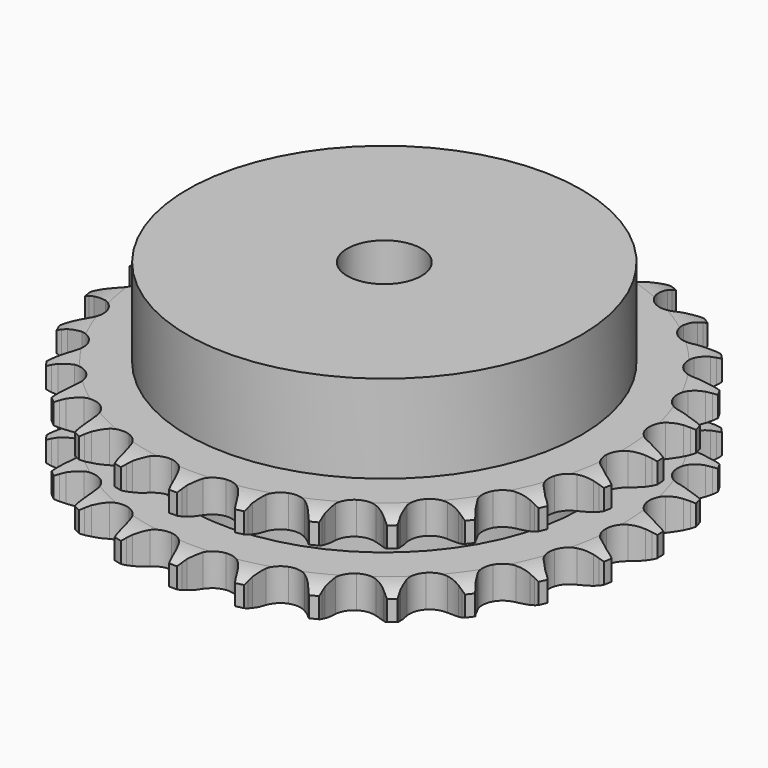
from build123d import *

# Parameters (mm, degrees)
PAD_DEPTH         = 21
SKETCH001_R       = 42.5
PAD001_DEPTH      = 40
SKETCH002_R       = 8
POCKET_DEPTH      = 0.001
POCKET_DEPTH_BACK = 40.001


with BuildPart() as part:
    # Sprocket → Pad (new body)
    with BuildSketch(Plane.XY):
        with BuildLine():
            ThreePointArc((-6.790948, 58.100272), (-5.963647, 57.039551), (-5.356117, 55.839358))
            Line((-5.356117, 55.839358), (-4.941702, 54.776235))
            ThreePointArc((-4.941702, 54.776235), (-4.282171, 53.379584), (-3.435517, 52.087767))
            ThreePointArc((-3.435517, 52.087767), (-1.917573, 50.832759), (0, 50.383192))
            ThreePointArc((0, 50.383192), (1.917573, 50.832759), (3.435517, 52.087767))
            ThreePointArc((3.435517, 52.087767), (4.282171, 53.379584), (4.941702, 54.776235))
            Line((4.941702, 54.776235), (5.356117, 55.839358))
            ThreePointArc((5.356117, 55.839358), (5.963647, 57.039551), (6.790948, 58.100272))
            ThreePointArc((6.790948, 58.100272), (7.35133, 56.877354), (7.6657, 55.569406))
            Line((7.6657, 55.569406), (7.823772, 54.439369))
            ThreePointArc((7.823772, 54.439369), (8.143435, 52.928267), (8.669354, 51.47602))
            ThreePointArc((8.669354, 51.47602), (9.856956, 49.904778), (11.619164, 49.025107))
            ThreePointArc((11.619164, 49.025107), (13.588726, 49.020333), (15.355178, 49.89145))
            Line((15.355178, 49.89145), (17.440766, 52.160099))
            ThreePointArc((17.440766, 52.160099), (17.752927, 52.637868), (18.089184, 53.098995))
            ThreePointArc((18.089184, 53.098995), (18.957122, 54.126731), (20.006742, 54.968071))
            ThreePointArc((20.006742, 54.968071), (20.269994, 53.648884), (20.274257, 52.303693))
            Line((20.274257, 52.303693), (20.167463, 51.167663))
            ThreePointArc((20.167463, 51.167663), (20.130026, 49.623573), (20.306857, 48.089186))
            ThreePointArc((20.306857, 48.089186), (21.100094, 46.286418), (22.611935, 45.024065))
            ThreePointArc((22.611935, 45.024065), (24.527307, 44.565207), (26.447037, 45.005472))
            Line((26.447037, 45.005472), (28.999595, 46.732))
            ThreePointArc((28.999595, 46.732), (29.413522, 47.1249), (29.847059, 47.496052))
            ThreePointArc((29.847059, 47.496052), (30.928613, 48.295924), (32.143967, 48.872528))
            ThreePointArc((32.143967, 48.872528), (32.095898, 47.528189), (31.789824, 46.218275))
            Line((31.789824, 46.218275), (31.423922, 45.137495))
            ThreePointArc((31.423922, 45.137495), (31.031402, 43.64366), (30.849613, 42.109852))
            ThreePointArc((30.849613, 42.109852), (31.205721, 40.172745), (32.385692, 38.595765))
            ThreePointArc((32.385692, 38.595765), (34.143614, 37.70756), (36.11313, 37.693237))
            Line((36.11313, 37.693237), (38.995048, 38.784566))
            ThreePointArc((38.995048, 38.784566), (39.488427, 39.071418), (39.995871, 39.332584))
            ThreePointArc((39.995871, 39.332584), (41.232735, 39.861472), (42.548303, 40.142253))
            ThreePointArc((42.548303, 40.142253), (42.191503, 38.845237), (41.591593, 37.641218))
            Line((41.591593, 37.641218), (40.986309, 36.673953))
            ThreePointArc((40.986309, 36.673953), (40.259868, 35.310906), (39.729258, 33.860366))
            ThreePointArc((39.729258, 33.860366), (39.62904, 31.893349), (40.413527, 30.086756))
            ThreePointArc((40.413527, 30.086756), (41.91923, 28.817089), (43.832355, 28.34895))
            Line((43.832355, 28.34895), (46.888268, 28.746246))
            ThreePointArc((46.888268, 28.746246), (47.4345, 28.911584), (47.988495, 29.048687))
            ThreePointArc((47.988495, 29.048687), (49.31399, 29.278078), (50.658849, 29.2479))
            ThreePointArc((50.658849, 29.2479), (50.012554, 28.068129), (49.151148, 27.034912))
            Line((49.151148, 27.034912), (48.339113, 26.233308))
            ThreePointArc((48.339113, 26.233308), (47.317913, 25.074531), (46.467088, 23.785458))
            ThreePointArc((46.467088, 23.785458), (45.915946, 21.894574), (46.262659, 19.955763))
            ThreePointArc((46.262659, 19.955763), (47.43497, 18.37308), (49.188566, 17.476364))
            Line((49.188566, 17.476364), (52.253729, 17.158208))
            ThreePointArc((52.253729, 17.158208), (52.823367, 17.19312), (53.394047, 17.198767))
            ThreePointArc((53.394047, 17.198767), (54.736714, 17.116295), (56.038363, 16.776784))
            ThreePointArc((56.038363, 16.776784), (55.137415, 15.77786), (54.060952, 14.971148))
            Line((54.060952, 14.971148), (53.085943, 14.378419))
            ThreePointArc((53.085943, 14.378419), (51.825037, 13.486382), (50.699866, 12.428269))
            ThreePointArc((50.699866, 12.428269), (49.727512, 10.715457), (49.617759, 8.74895))
            ThreePointArc((49.617759, 8.74895), (50.393478, 6.938575), (51.893008, 5.661622))
            Line((51.893008, 5.661622), (54.802178, 4.645167))
            ThreePointArc((54.802178, 4.645167), (55.364513, 4.547771), (55.921112, 4.421657))
            ThreePointArc((55.921112, 4.421657), (57.208568, 4.031768), (58.396834, 3.401228))
            ThreePointArc((58.396834, 3.401228), (57.289804, 2.637003), (56.056317, 2.100285))
            Line((56.056317, 2.100285), (54.970896, 1.748386))
            ThreePointArc((54.970896, 1.748386), (53.538261, 1.171179), (52.199401, 0.40107))
            ThreePointArc((52.199401, 0.40107), (50.858255, -1.041333), (50.297952, -2.929522))
            ThreePointArc((50.297952, -2.929522), (50.635261, -4.869991), (51.799886, -6.458339))
            Line((51.799886, -6.458339), (54.396227, -8.118296))
            ThreePointArc((54.396227, -8.118296), (54.920944, -8.34275), (55.433456, -8.593825))
            ThreePointArc((55.433456, -8.593825), (56.596294, -9.270112), (57.607117, -10.157689))
            ThreePointArc((57.607117, -10.157689), (56.353685, -10.646016), (55.029671, -10.883805))
            Line((55.029671, -10.883805), (53.892354, -10.975903))
            ThreePointArc((53.892354, -10.975903), (52.365222, -11.207163), (50.884852, -11.647751))
            ThreePointArc((50.884852, -11.647751), (49.247216, -12.741984), (48.26657, -14.450062))
            ThreePointArc((48.26657, -14.450062), (48.147284, -16.416015), (48.914218, -18.230129))
            Line((48.914218, -18.230129), (51.057762, -20.444099))
            ThreePointArc((51.057762, -20.444099), (51.516572, -20.783512), (51.957367, -21.146012))
            ThreePointArc((51.957367, -21.146012), (52.932898, -22.072239), (53.711785, -23.169003))
            ThreePointArc((53.711785, -23.169003), (52.379523, -23.355106), (51.036361, -23.281146))
            Line((51.036361, -23.281146), (49.908461, -23.108478))
            ThreePointArc((49.908461, -23.108478), (48.369161, -22.981324), (46.827088, -23.068639))
            ThreePointArc((46.827088, -23.068639), (44.981247, -23.755712), (43.633125, -25.191596))
            ThreePointArc((43.633125, -25.191596), (43.063674, -27.077047), (43.391571, -29.019129))
            Line((43.391571, -29.019129), (44.96676, -31.667756))
            ThreePointArc((44.96676, -31.667756), (45.334928, -32.103829), (45.680244, -32.558212))
            ThreePointArc((45.680244, -32.558212), (46.415876, -33.684445), (46.920838, -34.931269))
            ThreePointArc((46.920838, -34.931269), (45.581569, -34.805115), (44.291667, -34.423394))
            Line((44.291667, -34.423394), (43.233991, -33.99527))
            ThreePointArc((43.233991, -33.99527), (41.765506, -33.516555), (40.244864, -33.24589))
            ThreePointArc((40.244864, -33.24589), (38.290328, -33.488763), (36.647406, -34.575045))
            ThreePointArc((36.647406, -34.575045), (35.65849, -36.278348), (35.529674, -38.243699))
            Line((35.529674, -38.243699), (36.451588, -41.184196))
            ThreePointArc((36.451588, -41.184196), (36.709267, -41.69342), (36.940487, -42.21519))
            ThreePointArc((36.940487, -42.21519), (37.396563, -43.480714), (37.600375, -44.810382))
            ThreePointArc((37.600375, -44.810382), (36.3263, -44.378772), (35.159199, -43.709868))
            Line((35.159199, -43.709868), (34.228764, -43.049367))
            ThreePointArc((34.228764, -43.049367), (32.910262, -42.244901), (31.493028, -41.630848))
            ThreePointArc((31.493028, -41.630848), (29.535167, -41.416427), (27.686017, -42.094543))
            ThreePointArc((27.686017, -42.094543), (26.330948, -43.523874), (25.752363, -45.406542))
            Line((25.752363, -45.406542), (25.971301, -48.480386))
            ThreePointArc((25.971301, -48.480386), (26.1046, -49.035308), (26.209258, -49.596337))
            ThreePointArc((26.209258, -49.596337), (26.361191, -50.932927), (26.252867, -52.273756))
            ThreePointArc((26.252867, -52.273756), (25.11267, -51.559957), (24.131288, -50.639933))
            Line((24.131288, -50.639933), (23.378256, -49.782662))
            ThreePointArc((23.378256, -49.782662), (22.280817, -48.695813), (21.043395, -47.771475))
            ThreePointArc((21.043395, -47.771475), (19.187757, -47.11132), (17.232067, -47.344714))
            ThreePointArc((17.232067, -47.344714), (15.583898, -48.423017), (14.586736, -50.121507))
            Line((14.586736, -50.121507), (14.090895, -53.162985))
            ThreePointArc((14.090895, -53.162985), (14.092627, -53.73369), (14.065082, -54.303732))
            ThreePointArc((14.065082, -54.303732), (13.90468, -55.639332), (13.49006, -56.919038))
            ThreePointArc((13.49006, -56.919038), (12.545211, -55.961533), (11.802454, -54.839985))
            Line((11.802454, -54.839985), (11.26742, -53.832161))
            ThreePointArc((11.26742, -53.832161), (10.450208, -52.521521), (9.459308, -51.336729))
            ThreePointArc((9.459308, -51.336729), (7.805931, -50.266429), (5.849132, -50.042519))
            ThreePointArc((5.849132, -50.042519), (3.996716, -50.711663), (2.634734, -52.134408))
            Line((2.634734, -52.134408), (1.450845, -54.979554))
            ThreePointArc((1.450845, -54.979554), (1.320916, -55.535275), (1.162653, -56.083599))
            ThreePointArc((1.162653, -56.083599), (0.698565, -57.346207), (0, -58.4958))
            ThreePointArc((0, -58.4958), (-0.698565, -57.346207), (-1.162653, -56.083599))
            Line((-1.162653, -56.083599), (-1.450845, -54.979554))
            ThreePointArc((-1.450845, -54.979554), (-1.943775, -53.51578), (-2.634734, -52.134408))
            ThreePointArc((-2.634734, -52.134408), (-3.996716, -50.711663), (-5.849132, -50.042519))
            ThreePointArc((-5.849132, -50.042519), (-7.805931, -50.266429), (-9.459308, -51.336729))
            Line((-9.459308, -51.336729), (-11.26742, -53.832161))
            ThreePointArc((-11.26742, -53.832161), (-11.522005, -54.342938), (-11.802454, -54.839985))
            ThreePointArc((-11.802454, -54.839985), (-12.545211, -55.961533), (-13.49006, -56.919038))
            ThreePointArc((-13.49006, -56.919038), (-13.90468, -55.639332), (-14.065082, -54.303732))
            Line((-14.065082, -54.303732), (-14.090895, -53.162985))
            ThreePointArc((-14.090895, -53.162985), (-14.232969, -51.62499), (-14.586736, -50.121507))
            ThreePointArc((-14.586736, -50.121507), (-15.583898, -48.423017), (-17.232067, -47.344714))
            ThreePointArc((-17.232067, -47.344714), (-19.187757, -47.11132), (-21.043395, -47.771475))
            Line((-21.043395, -47.771475), (-23.378256, -49.782662))
            ThreePointArc((-23.378256, -49.782662), (-23.743772, -50.22096), (-24.131288, -50.639933))
            ThreePointArc((-24.131288, -50.639933), (-25.11267, -51.559957), (-26.252867, -52.273756))
            ThreePointArc((-26.252867, -52.273756), (-26.361191, -50.932927), (-26.209258, -49.596337))
            Line((-26.209258, -49.596337), (-25.971301, -48.480386))
            ThreePointArc((-25.971301, -48.480386), (-25.75486, -46.951083), (-25.752363, -45.406542))
            ThreePointArc((-25.752363, -45.406542), (-26.330948, -43.523874), (-27.686017, -42.094543))
            ThreePointArc((-27.686017, -42.094543), (-29.535167, -41.416427), (-31.493028, -41.630848))
            Line((-31.493028, -41.630848), (-34.228764, -43.049367))
            ThreePointArc((-34.228764, -43.049367), (-34.685506, -43.391557), (-35.159199, -43.709868))
            ThreePointArc((-35.159199, -43.709868), (-36.3263, -44.378772), (-37.600375, -44.810382))
            ThreePointArc((-37.600375, -44.810382), (-37.396563, -43.480714), (-36.940487, -42.21519))
            Line((-36.940487, -42.21519), (-36.451588, -41.184196))
            ThreePointArc((-36.451588, -41.184196), (-35.888299, -39.746031), (-35.529674, -38.243699))
            ThreePointArc((-35.529674, -38.243699), (-35.65849, -36.278348), (-36.647406, -34.575045))
            ThreePointArc((-36.647406, -34.575045), (-38.290328, -33.488763), (-40.244864, -33.24589))
            Line((-40.244864, -33.24589), (-43.233991, -33.99527))
            ThreePointArc((-43.233991, -33.99527), (-43.757335, -34.222904), (-44.291667, -34.423394))
            ThreePointArc((-44.291667, -34.423394), (-45.581569, -34.805115), (-46.920838, -34.931269))
            ThreePointArc((-46.920838, -34.931269), (-46.415876, -33.684445), (-45.680244, -32.558212))
            Line((-45.680244, -32.558212), (-44.96676, -31.667756))
            ThreePointArc((-44.96676, -31.667756), (-44.086991, -30.398261), (-43.391571, -29.019129))
            ThreePointArc((-43.391571, -29.019129), (-43.063674, -27.077047), (-43.633125, -25.191596))
            ThreePointArc((-43.633125, -25.191596), (-44.981247, -23.755712), (-46.827088, -23.068639))
            Line((-46.827088, -23.068639), (-49.908461, -23.108478))
            ThreePointArc((-49.908461, -23.108478), (-50.470195, -23.209285), (-51.036361, -23.281146))
            ThreePointArc((-51.036361, -23.281146), (-52.379523, -23.355106), (-53.711785, -23.169003))
            ThreePointArc((-53.711785, -23.169003), (-52.932898, -22.072239), (-51.957367, -21.146012))
            Line((-51.957367, -21.146012), (-51.057762, -20.444099))
            ThreePointArc((-51.057762, -20.444099), (-49.908942, -19.411712), (-48.914218, -18.230129))
            ThreePointArc((-48.914218, -18.230129), (-48.147284, -16.416015), (-48.26657, -14.450062))
            ThreePointArc((-48.26657, -14.450062), (-49.247216, -12.741984), (-50.884852, -11.647751))
            Line((-50.884852, -11.647751), (-53.892354, -10.975903))
            ThreePointArc((-53.892354, -10.975903), (-54.462194, -10.944448), (-55.029671, -10.883805))
            ThreePointArc((-55.029671, -10.883805), (-56.353685, -10.646016), (-57.607117, -10.157689))
            ThreePointArc((-57.607117, -10.157689), (-56.596294, -9.270112), (-55.433456, -8.593825))
            Line((-55.433456, -8.593825), (-54.396227, -8.118296))
            ThreePointArc((-54.396227, -8.118296), (-53.040288, -7.378673), (-51.799886, -6.458339))
            ThreePointArc((-51.799886, -6.458339), (-50.635261, -4.869991), (-50.297952, -2.929522))
            ThreePointArc((-50.297952, -2.929522), (-50.858255, -1.041333), (-52.199401, 0.40107))
            Line((-52.199401, 0.40107), (-54.970896, 1.748386))
            ThreePointArc((-54.970896, 1.748386), (-55.518122, 1.910407), (-56.056317, 2.100285))
            ThreePointArc((-56.056317, 2.100285), (-57.289804, 2.637003), (-58.396834, 3.401228))
            ThreePointArc((-58.396834, 3.401228), (-57.208568, 4.031768), (-55.921112, 4.421657))
            Line((-55.921112, 4.421657), (-54.802178, 4.645167))
            ThreePointArc((-54.802178, 4.645167), (-53.31222, 5.052153), (-51.893008, 5.661622))
            ThreePointArc((-51.893008, 5.661622), (-50.393478, 6.938575), (-49.617759, 8.74895))
            ThreePointArc((-49.617759, 8.74895), (-49.727512, 10.715457), (-50.699866, 12.428269))
            Line((-50.699866, 12.428269), (-53.085943, 14.378419))
            ThreePointArc((-53.085943, 14.378419), (-53.581054, 14.662272), (-54.060952, 14.971148))
            ThreePointArc((-54.060952, 14.971148), (-55.137415, 15.77786), (-56.038363, 16.776784))
            ThreePointArc((-56.038363, 16.776784), (-54.736714, 17.116295), (-53.394047, 17.198767))
            Line((-53.394047, 17.198767), (-52.253729, 17.158208))
            ThreePointArc((-52.253729, 17.158208), (-50.710075, 17.210615), (-49.188566, 17.476364))
            ThreePointArc((-49.188566, 17.476364), (-47.43497, 18.37308), (-46.262659, 19.955763))
            ThreePointArc((-46.262659, 19.955763), (-45.915946, 21.894574), (-46.467088, 23.785458))
            Line((-46.467088, 23.785458), (-48.339113, 26.233308))
            ThreePointArc((-48.339113, 26.233308), (-48.755417, 26.62369), (-49.151148, 27.034912))
            ThreePointArc((-49.151148, 27.034912), (-50.012554, 28.068129), (-50.658849, 29.2479))
            ThreePointArc((-50.658849, 29.2479), (-49.31399, 29.278078), (-47.988495, 29.048687))
            Line((-47.988495, 29.048687), (-46.888268, 28.746246))
            ThreePointArc((-46.888268, 28.746246), (-45.374138, 28.441249), (-43.832355, 28.34895))
            ThreePointArc((-43.832355, 28.34895), (-41.91923, 28.817089), (-40.413527, 30.086756))
            ThreePointArc((-40.413527, 30.086756), (-39.62904, 31.893349), (-39.729258, 33.860366))
            Line((-39.729258, 33.860366), (-40.986309, 36.673953))
            ThreePointArc((-40.986309, 36.673953), (-41.301363, 37.149818), (-41.591593, 37.641218))
            ThreePointArc((-41.591593, 37.641218), (-42.191503, 38.845237), (-42.548303, 40.142253))
            ThreePointArc((-42.548303, 40.142253), (-41.232735, 39.861472), (-39.995871, 39.332584))
            Line((-39.995871, 39.332584), (-38.995048, 38.784566))
            ThreePointArc((-38.995048, 38.784566), (-37.592068, 38.138608), (-36.11313, 37.693237))
            ThreePointArc((-36.11313, 37.693237), (-34.143614, 37.70756), (-32.385692, 38.595765))
            ThreePointArc((-32.385692, 38.595765), (-31.205721, 40.172745), (-30.849613, 42.109852))
            Line((-30.849613, 42.109852), (-31.423922, 45.137495))
            ThreePointArc((-31.423922, 45.137495), (-31.620742, 45.67319), (-31.789824, 46.218275))
            ThreePointArc((-31.789824, 46.218275), (-32.095898, 47.528189), (-32.143967, 48.872528))
            ThreePointArc((-32.143967, 48.872528), (-30.928613, 48.295924), (-29.847059, 47.496052))
            Line((-29.847059, 47.496052), (-28.999595, 46.732))
            ThreePointArc((-28.999595, 46.732), (-27.783401, 45.779904), (-26.447037, 45.005472))
            ThreePointArc((-26.447037, 45.005472), (-24.527307, 44.565207), (-22.611935, 45.024065))
            ThreePointArc((-22.611935, 45.024065), (-21.100094, 46.286418), (-20.306857, 48.089186))
            Line((-20.306857, 48.089186), (-20.167463, 51.167663))
            ThreePointArc((-20.167463, 51.167663), (-20.235438, 51.734308), (-20.274257, 52.303693))
            ThreePointArc((-20.274257, 52.303693), (-20.269994, 53.648884), (-20.006742, 54.968071))
            ThreePointArc((-20.006742, 54.968071), (-18.957122, 54.126731), (-18.089184, 53.098995))
            Line((-18.089184, 53.098995), (-17.440766, 52.160099))
            ThreePointArc((-17.440766, 52.160099), (-16.476923, 50.953194), (-15.355178, 49.89145))
            ThreePointArc((-15.355178, 49.89145), (-13.588726, 49.020333), (-11.619164, 49.025107))
            ThreePointArc((-11.619164, 49.025107), (-9.856956, 49.904778), (-8.669354, 51.47602))
            Line((-8.669354, 51.47602), (-7.823772, 54.439369))
            ThreePointArc((-7.823772, 54.439369), (-7.759237, 55.006416), (-7.6657, 55.569406))
            ThreePointArc((-7.6657, 55.569406), (-7.35133, 56.877354), (-6.790948, 58.100272))
        make_face()
    extrude(amount=PAD_DEPTH)

    # Sketch → Groove (revolve, cut)
    with BuildSketch(Plane.XZ):
        with BuildLine():
            ThreePointArc((51.333431, 0), (54.24032, 0.329167), (57, 1.3))
            Line((57, 1.3), (57, 5.7))
            ThreePointArc((57, 5.7), (54.24032, 6.670833), (51.333431, 7))
            Line((42.5, 7), (51.333431, 7))
            Line((42.5, 14), (42.5, 7))
            Line((51.333431, 14), (42.5, 14))
            ThreePointArc((51.333431, 14), (54.24032, 14.329167), (57, 15.3))
            Line((57, 15.3), (57, 19.7))
            ThreePointArc((57, 19.7), (54.24032, 20.670833), (51.333431, 21))
            Line((51.333431, 21), (61.333431, 21))
            Line((61.333431, 21), (61.333431, 0))
            Line((51.333431, 0), (61.333431, 0))
        make_face()
    revolve(axis=Axis((0, 0, 0), (0, 0, 1)), mode=Mode.SUBTRACT)

    # Sketch001 → Pad001 (join)
    with BuildSketch(Plane.XY):
        Circle(SKETCH001_R)
    extrude(amount=PAD001_DEPTH)

    # Sketch002 → Pocket (cut, two sides)
    with BuildSketch(Plane.XY) as pocket_sk:
        Circle(SKETCH002_R)
    extrude(amount=-POCKET_DEPTH, mode=Mode.SUBTRACT)
    extrude(pocket_sk.sketch, amount=POCKET_DEPTH_BACK, mode=Mode.SUBTRACT)


solid = part.part
